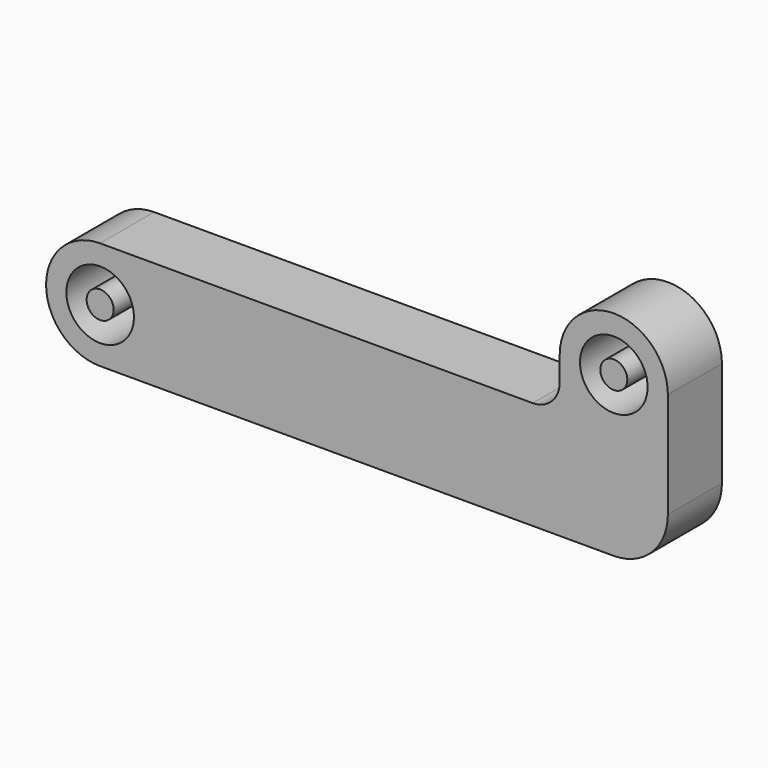
from build123d import *

# Parameters (mm, degrees)
F0_R     = 63.5
F0_R_2   = 25.4
F1_DEPTH = 127


with BuildPart() as f1:
    # F0 (on Front) → F1 (new body)
    with BuildSketch(Plane.XZ):
        with BuildLine():
            ThreePointArc((0, 203.2), (-101.6, 101.6), (0, 0))
            Line((0, 0), (863.6, 0))
            Line((863.6, 0), (965.2, 0))
            ThreePointArc((965.2, 0), (1037.042049, 29.757951), (1066.8, 101.6))
            Line((1066.8, 101.6), (1066.8, 299.72))
            ThreePointArc((1066.8, 299.72), (965.2, 401.32), (863.6, 299.72))
            Line((863.6, 299.72), (863.6, 254))
            ThreePointArc((863.6, 254), (848.721024, 218.078976), (812.8, 203.2))
            Line((812.8, 203.2), (0, 203.2))
        make_face()
        with Locations((0, 101.6)):
            Circle(F0_R, mode=Mode.SUBTRACT)
        with Locations((965.2, 299.72)):
            Circle(F0_R, mode=Mode.SUBTRACT)
        with Locations((0, 101.6)):
            Circle(F0_R_2)
        with Locations((965.2, 299.72)):
            Circle(F0_R_2)
    extrude(amount=F1_DEPTH)


solid = f1.part
